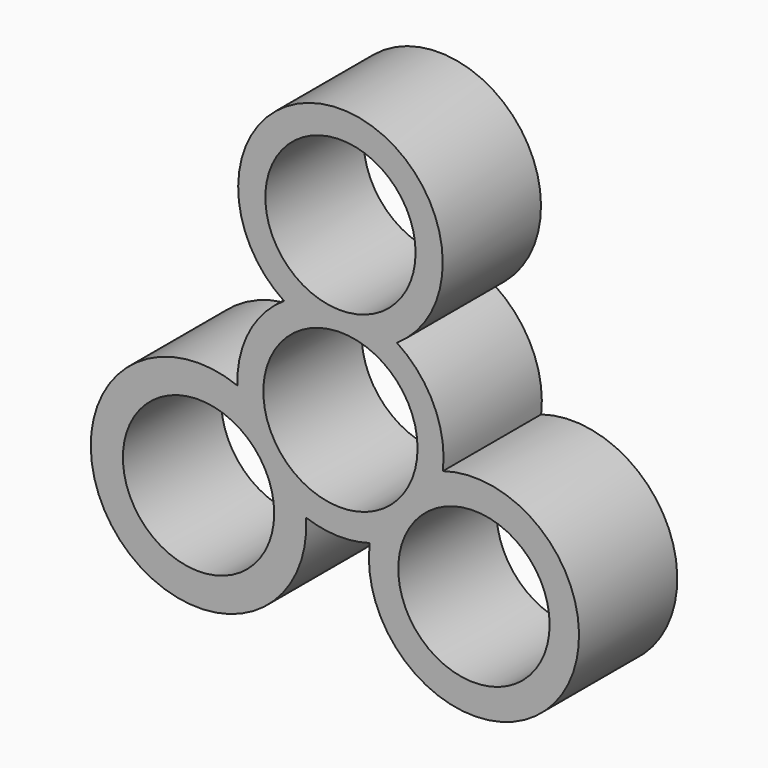
from build123d import *

# Parameters (mm, degrees)
F0_R     = 15.644547
F0_R_2   = 15.650853
F0_R_3   = 15.947198
F0_R_4   = 15.533086
F1_DEPTH = 25.4


with BuildPart() as f1:
    # F0 (on Front) → F1 (new body)
    with BuildSketch(Plane.XZ):
        with BuildLine():
            ThreePointArc((11.669454, 17.846526), (0, 56.631885), (-11.669454, 17.846526))
            ThreePointArc((-11.669454, 17.846526), (-18.913895, 9.845772), (-21.312332, -0.677605))
            ThreePointArc((-21.312332, -0.677605), (-47.332079, -34.622215), (-7.100958, -20.105995))
            ThreePointArc((-7.100958, -20.105995), (-0.551606, -21.315965), (6.05156, -20.446351))
            ThreePointArc((6.05156, -20.446351), (44.238676, -37.166309), (21.183635, -2.434797))
            ThreePointArc((21.183635, -2.434797), (19.304517, 9.055951), (11.669454, 17.846526))
        make_face()
        with Locations((-29.344995, -21.465119)):
            Circle(F0_R, mode=Mode.SUBTRACT)
        with Locations((27.60382, -23.190841)):
            Circle(F0_R_2, mode=Mode.SUBTRACT)
        Circle(F0_R_3, mode=Mode.SUBTRACT)
        with Locations((0, 35.483696)):
            Circle(F0_R_4, mode=Mode.SUBTRACT)
    extrude(amount=F1_DEPTH)


solid = f1.part
